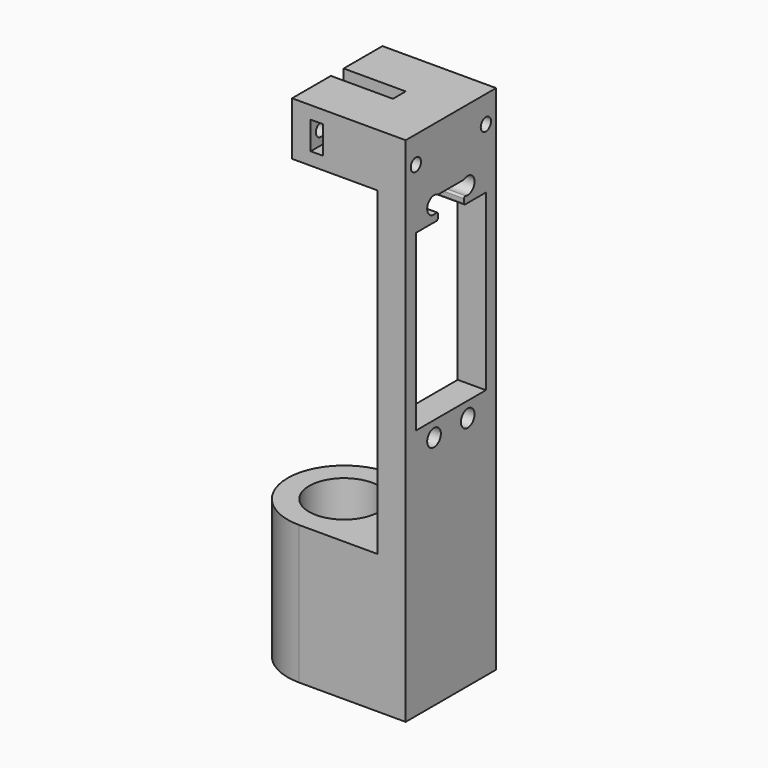
from build123d import *

# Parameters (mm, degrees)
F0_R      = 8.3502
F1_DEPTH  = 33.02
F2_W      = 6.7056
F2_H      = 26.9042
F3_DEPTH  = 76.2
F4_W      = 20.8406
F4_H      = 41.44
F4_R      = 2.032
F5_DEPTH  = 25.4
F6_W      = 7.7596
F6_H      = 5.3483209641
F7_DEPTH  = 25.4
F8_R      = 0.4
F9_W      = 27.051
F9_H      = 26.9042
F10_DEPTH = 12.7
F11_W     = 3.81
F11_H     = 12.7
F11_R     = 1.524
F12_DEPTH = 14.7828
F13_DEPTH = 12.7
F14_W     = 2.88544
F14_H     = 6.6294
F15_DEPTH = 26.9052


with BuildPart() as f1:
    # F0 (on Top) → F1 (new body)
    with BuildSketch(Plane.XY):
        with BuildLine():
            Line((25.4, 13.4521), (0, 13.4521))
            ThreePointArc((0, 13.4521), (-13.4521, 0), (0, -13.4521))
            Line((0, -13.4521), (25.4, -13.4521))
            Line((25.4, -13.4521), (25.4, 13.4521))
        make_face()
        Circle(F0_R, mode=Mode.SUBTRACT)
    extrude(amount=F1_DEPTH)

    # F2 (on face) → F3 (join)
    with BuildSketch(Plane.XY.offset(33.02)):
        with Locations((22.0472, 0)):
            Rectangle(F2_W, F2_H)
    extrude(amount=F3_DEPTH)

    # F4 (on face) → F5 (cut)
    with BuildSketch(Plane(origin=(18.6944, 0, 0), x_dir=(0, -1, 0), z_dir=(-1, 0, 0))):
        with Locations((0, 80.55)):
            Rectangle(F4_W, F4_H)
        with Locations((-5.0165, 104.934)):
            Circle(F4_R)
        with Locations((-5.0165, 56.166)):
            Circle(F4_R)
        with Locations((5.0165, 56.166)):
            Circle(F4_R)
        with Locations((5.0165, 104.934)):
            Circle(F4_R)
    extrude(amount=-F5_DEPTH, mode=Mode.SUBTRACT)

    # F6 (on face) → F7 (cut)
    with BuildSketch(Plane(origin=(18.6944, 0, 0), x_dir=(0, -1, 0), z_dir=(-1, 0, 0))):
        with Locations((0, 103.944160482)):
            Rectangle(F6_W, F6_H)
    extrude(amount=-F7_DEPTH, mode=Mode.SUBTRACT)

    # F8
    f8_edges = [f1.edges().sort_by_distance(p)[0] for p in [
        (22.0472, 3.8798, 103.249679),
        (22.0472, -3.8798, 103.249679),
        (22.0472, 3.8798, 101.27),
        (22.0472, -3.8798, 101.27),
        (22.0472, 3.8798, 106.618321),
        (22.0472, -3.8798, 106.618321),
    ]]
    fillet(f8_edges, radius=F8_R)

    # F9 (on face) → F10 (join)
    with BuildSketch(Plane.XY.offset(109.22)):
        with Locations((11.8745, 0)):
            Rectangle(F9_W, F9_H)
    extrude(amount=F10_DEPTH)

    # F11 (on face) → F12 (cut)
    with BuildSketch(Plane(origin=(-1.651, 0, 0), x_dir=(0, -1, 0), z_dir=(-1, 0, 0))):
        with Locations((0, 115.57)):
            Rectangle(F11_W, F11_H)
        with Locations((-10.414, 115.57)):
            Circle(F11_R)
        with Locations((10.414, 115.57)):
            Circle(F11_R)
    extrude(amount=-F12_DEPTH, mode=Mode.SUBTRACT)

    # F13 (cut): faces of the model
    f13_faces = [f1.faces().sort_by_distance(p)[0] for p in [
        (13.1318, 10.414, 115.57),
        (13.1318, -10.414, 115.57),
    ]]
    extrude(f13_faces, amount=-F13_DEPTH, mode=Mode.SUBTRACT)

    # F14 (on face) → F15 (cut, through all)
    with BuildSketch(Plane(origin=(0, 13.4521, 0), x_dir=(-1, 0, 0), z_dir=(0, 1, 0))):
        with Locations((-4.23672, 115.57)):
            Rectangle(F14_W, F14_H)
    extrude(amount=-F15_DEPTH, mode=Mode.SUBTRACT)


solid = f1.part
